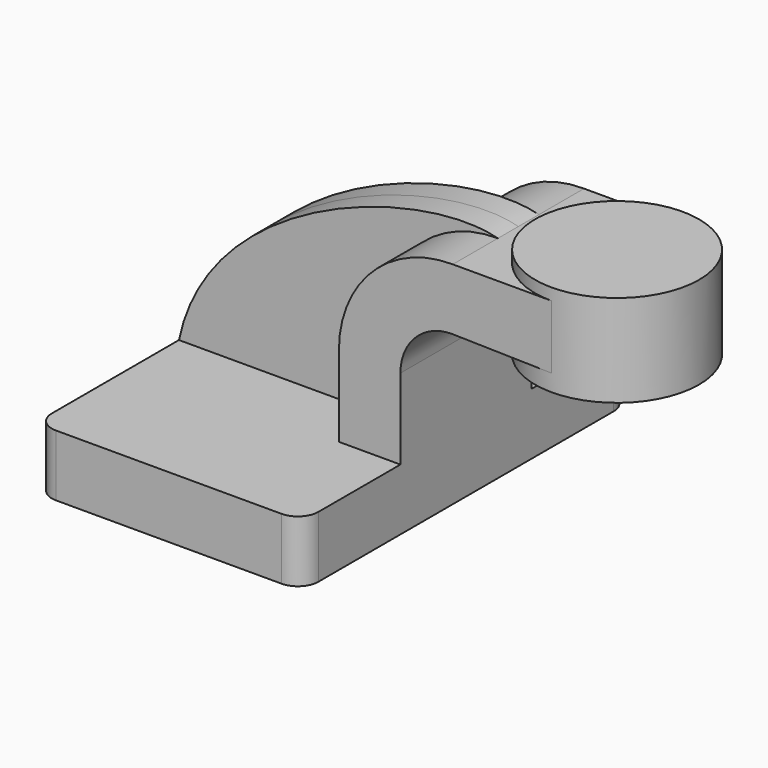
from build123d import *

# Parameters (mm, degrees)
F1_DEPTH = 63.5
F2_DEPTH = 25.4
F3_DEPTH = 7.9375
F5_R     = 6.35


with BuildPart() as f1:
    # F0 (on Front) → F1 (new body, symmetric)
    with BuildSketch(Plane.XZ):
        Polygon((22.225, 9.525), (-41.275, 9.525), (-41.275, -9.525), (41.275, -9.525), (41.275, 9.525), align=None)
    extrude(amount=F1_DEPTH, both=True)

    # F0 (on Front) → F2 (join, symmetric)
    with BuildSketch(Plane.XZ):
        with BuildLine():
            Line((22.225, 34.4544437543), (22.225, 9.525))
            Line((22.225, 9.525), (41.275, 9.525))
            Line((41.275, 9.525), (41.275, 34.4544437543))
            ThreePointArc((41.275, 34.4544437543), (46.045587398, 45.7993829681), (57.4901364744, 50.3257994676))
            Line((57.4901364744, 50.3257994676), (57.4901364744, 69.3777874112))
            ThreePointArc((57.4901364744, 69.3777874112), (32.5748463013, 59.2701131123), (22.225, 34.4544437543))
        make_face()
        with BuildLine():
            Line((22.225, 34.4544437543), (22.225, 9.525))
            Line((22.225, 9.525), (41.275, 9.525))
            Line((41.275, 9.525), (41.275, 34.4544437543))
            ThreePointArc((41.275, 34.4544437543), (46.045587398, 45.7993829681), (57.4901364744, 50.3257994676))
            Line((57.4901364744, 50.3257994676), (57.4901364744, 69.3777874112))
            ThreePointArc((57.4901364744, 69.3777874112), (32.5748463013, 59.2701131123), (22.225, 34.4544437543))
        make_face()
        Polygon((88.0403167844, 69.3777874112), (62.6403167844, 69.3777874112), (62.6403167844, 50.2154267808), (88.0403167844, 49.6710834616), align=None)
        Polygon((62.6403167844, 69.3777874112), (57.4901364744, 69.3777874112), (57.4901364744, 50.3257994676), (62.6403167844, 50.2154267808), align=None)
    extrude(amount=F2_DEPTH, both=True)

    # F0 (on Front) → F3 (join, symmetric)
    with BuildSketch(Plane.XZ):
        with BuildLine():
            add(Edge.make_bspline(
                [(-41.275, 9.525), (-31.7188613117, 55.5080212653), (34.4085570037, 75.710179948), (57.4901364744, 69.3777874112)],
                knots=[0, 0, 0, 0, 115.4855330494, 115.4855330494, 115.4855330494, 115.4855330494], degree=3))
            Line((-41.275, 9.525), (22.225, 9.525))
            Line((22.225, 9.525), (22.225, 34.4544437543))
            ThreePointArc((22.225, 34.4544437543), (32.5748463013, 59.2701131123), (57.4901364744, 69.3777874112))
        make_face()
    extrude(amount=F3_DEPTH, both=True)

    # F0 (on Front) → F4 (revolve)
    with BuildSketch(Plane.XZ):
        Polygon((88.0403167844, 73.025), (88.0403167844, 69.3777874112), (88.0403167844, 49.6710834616), (88.0403167844, 44.45), (113.4403167844, 44.45), (113.4403167844, 73.025), align=None)
    revolve(axis=Axis((88.0403167844, 0, 58.7375), (0, 0, -1)))

    # F5
    f5_edges = [f1.edges().sort_by_distance(p)[0] for p in [
        (41.275, -63.5, 0),
        (-41.275, -63.5, 0),
        (-41.275, 63.5, 0),
        (41.275, 63.5, 0),
    ]]
    fillet(f5_edges, radius=F5_R)


solid = f1.part
